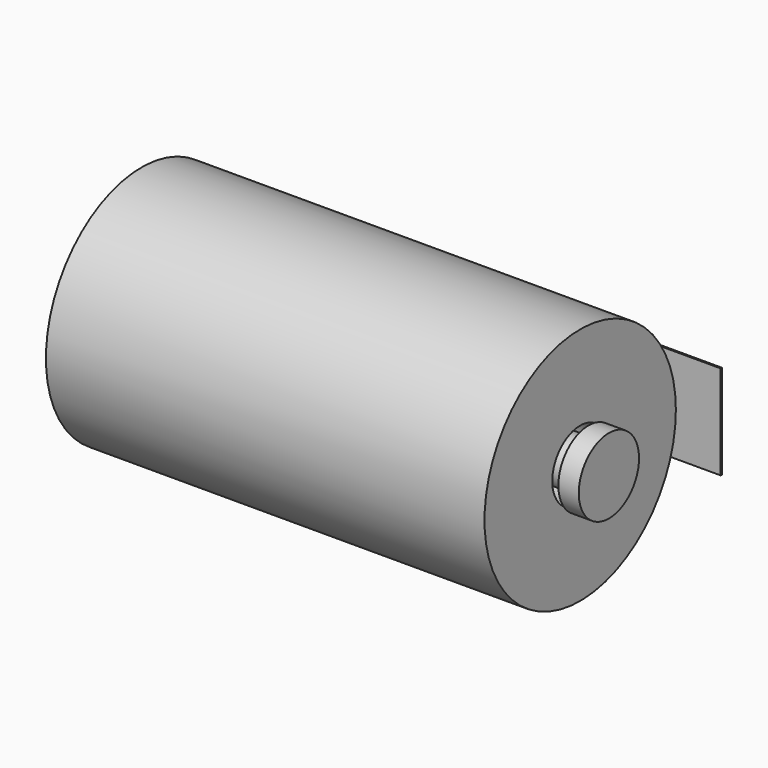
from build123d import *

# Parameters (mm, degrees)
F0_R           = 76.2
F0_R_2         = 22.225
F1_DEPTH       = 139.7
F0_R_3         = 15
F2_DEPTH       = 150
F3_START       = 150
F0_R_4         = 19
F3_DEPTH       = 3
F6_W           = 431.7707419395
F6_H           = 281.149558723
F7_DEPTH       = 25
F9_W           = 13
F9_H           = 60
F9_W_2         = 3
F9_H_2         = 29
F9_W_3         = 145
F10_DEPTH      = 1
F11_R          = 24
F12_DEPTH      = 5
F12_DEPTH_BACK = 8


with BuildPart() as f1:
    # F0 (on Right) → F1 (new body, symmetric)
    with BuildSketch(Plane.YZ):
        Circle(F0_R)
        Circle(F0_R_2, mode=Mode.SUBTRACT)
    extrude(amount=F1_DEPTH, both=True)


with BuildPart() as f2:
    # F0 (on Right) → F2 (new body)
    with BuildSketch(Plane.YZ):
        Circle(F0_R_3)
    extrude(amount=F2_DEPTH)

    # F0 (on Right) → F3 (join)
    with BuildSketch(Plane.YZ.offset(F3_START)):
        Circle(F0_R_4)
        Circle(F0_R_3, mode=Mode.SUBTRACT)
        Circle(F0_R_3)
    extrude(amount=F3_DEPTH)

    # F4: F2 across face


with BuildPart() as f2_1:
    add(f2.part)
    add(f2.part.mirror(Plane.YZ))

    # F6 (on offset) → F7 (cut)
    with BuildSketch(Plane.XY.offset(-10)):
        with Locations((0, 19.5408351719)):
            Rectangle(F6_W, F6_H)
    extrude(amount=-F7_DEPTH, mode=Mode.SUBTRACT)


with BuildPart() as f10:
    # F9 (on offset) → F10 (new body)
    with BuildSketch(Plane.XZ.offset(-90)):
        with Locations((151.5, -6)):
            Rectangle(F9_W, F9_H)
        with Locations((151.5, 4.5)):
            Rectangle(F9_W_2, F9_H_2, mode=Mode.SUBTRACT)
        with Locations((151.5, 4.5)):
            Rectangle(F9_W_2, F9_H_2)
        with Locations((72.5, -6)):
            Rectangle(F9_W_3, F9_H)
    extrude(amount=F10_DEPTH)


with BuildPart() as f12:
    # F11 (on face) → F12 (new body, two sides)
    with BuildSketch(Plane.YZ.offset(153)) as f12_sk:
        Circle(F11_R)
        with BuildLine():
            ThreePointArc((-16.1554944214, -10), (0, 19), (16.1554944214, -10))
            Line((16.1554944214, -10), (-16.1554944214, -10))
        make_face(mode=Mode.SUBTRACT)
        with BuildLine():
            Line((-16.1554944214, -10), (16.1554944214, -10))
            ThreePointArc((16.1554944214, -10), (0, 19), (-16.1554944214, -10))
        make_face()
    extrude(amount=F12_DEPTH)
    extrude(f12_sk.sketch, amount=-F12_DEPTH_BACK)


solid = Compound([f1.part, f2_1.part, f10.part, f12.part])
